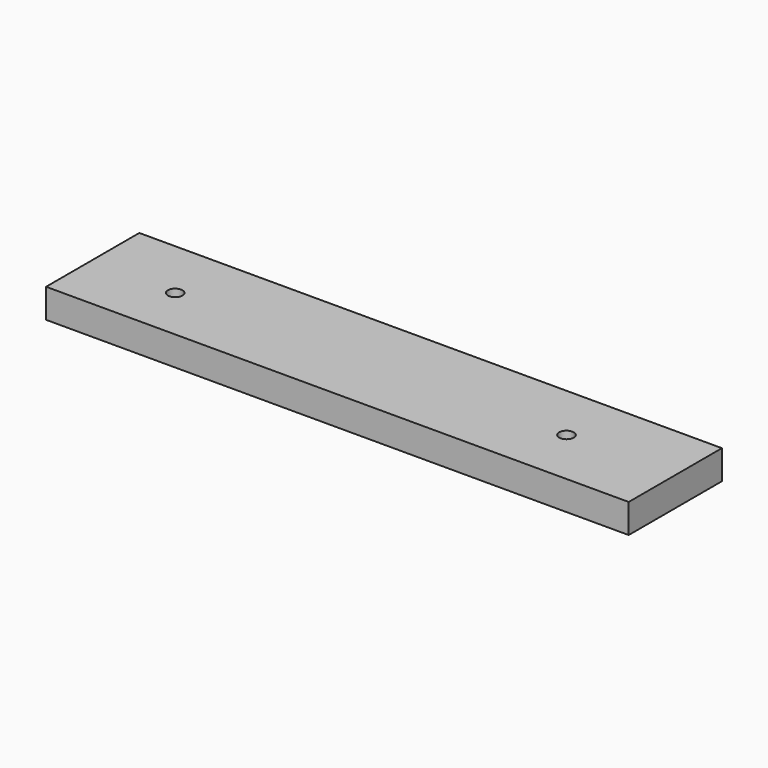
from build123d import *

# Parameters (mm, degrees)
F0_W     = 254
F0_H     = 50.8
F1_DEPTH = 12.7
F3_D     = 6.35


with BuildPart() as f1:
    # F0 (on Top) → F1 (new body)
    with BuildSketch(Plane.XY):
        with Locations((127, 25.4)):
            Rectangle(F0_W, F0_H)
    extrude(amount=F1_DEPTH)

    # F3 (through all)
    with Locations(Plane.XY.offset(12.7)):
        with Locations((37.144929, 23.913534), (206.59852, 25.34958)):
            Hole(F3_D / 2)


solid = f1.part
